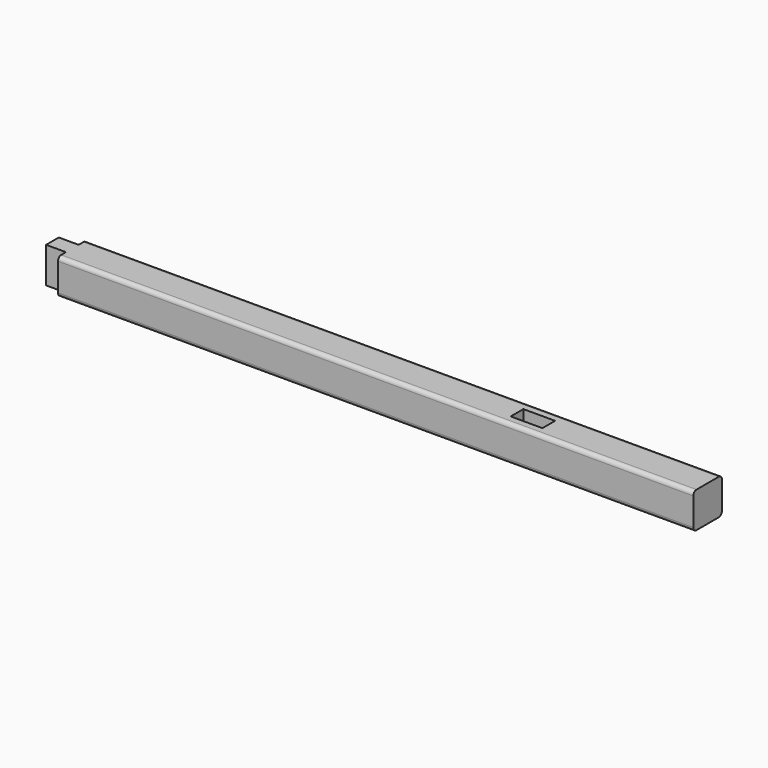
from build123d import *

# Parameters (mm, degrees)
F0_W     = 45
F0_H     = 45
F1_DEPTH = 400
F2_W     = 20
F2_H     = 45
F3_DEPTH = 25
F4_R     = 5
F5_W     = 40
F5_H     = 20
F6_DEPTH = 45.001


with BuildPart() as f1:
    # F0 (on Right) → F1 (new body, symmetric)
    with BuildSketch(Plane.YZ):
        Rectangle(F0_W, F0_H)
    extrude(amount=F1_DEPTH, both=True)

    # F2 (on face) → F3 (join)
    with BuildSketch(Plane(origin=(-400, 0, 0), x_dir=(0, -1, 0), z_dir=(-1, 0, 0))):
        Rectangle(F2_W, F2_H)
    extrude(amount=F3_DEPTH)

    # F4
    f4_edges = [f1.edges().sort_by_distance(p)[0] for p in [
        (0, -22.5, -22.5),
        (0, 22.5, -22.5),
        (0, -22.5, 22.5),
        (0, 22.5, 22.5),
    ]]
    fillet(f4_edges, radius=F4_R)

    # F5 (on face) → F6 (cut, through all)
    with BuildSketch(Plane.XY.offset(22.5)):
        with Locations((180, 0)):
            Rectangle(F5_W, F5_H)
    extrude(amount=-F6_DEPTH, mode=Mode.SUBTRACT)


solid = f1.part
